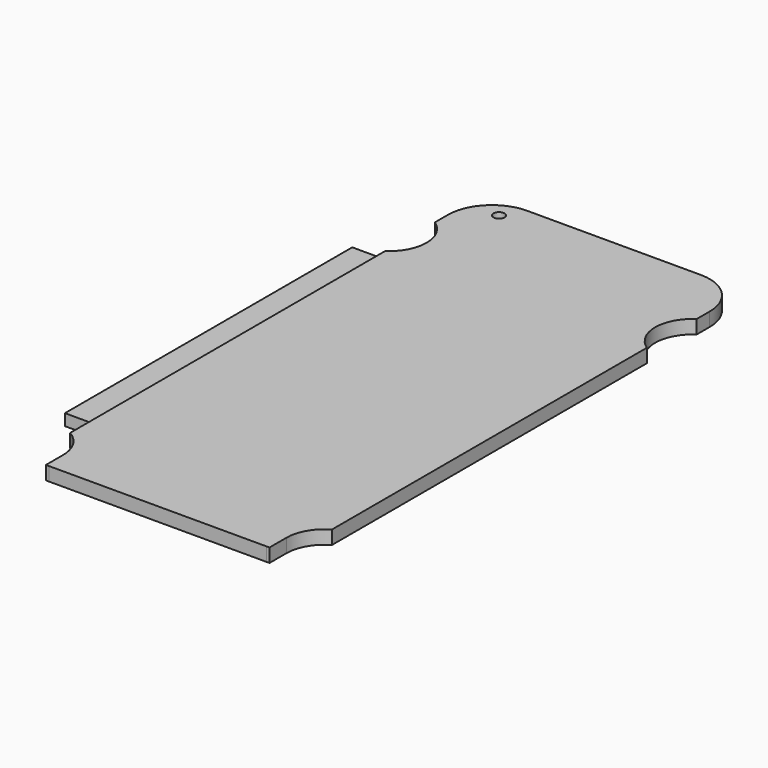
from build123d import *

# Parameters (mm, degrees)
F0_W      = 30.19
F0_H      = 57
F1_DEPTH  = 1.5748
F2_W      = 30.19
F2_H      = 1.5748
F3_DEPTH  = 6.8834
F4_R      = 2.54
F5_R      = 4.32816
F6_DEPTH  = 1.5758
F7_W      = 30.19
F7_H      = 1.5748
F8_DEPTH  = 1.905
F9_R      = 5.08
F10_R     = 0.635
F11_DEPTH = 25.4
F12_W     = 41.4245947965
F12_H     = 1.3208
F13_DEPTH = 2.921


with BuildPart() as f1:
    # F0 (on Top) → F1 (new body)
    with BuildSketch(Plane.XY):
        Rectangle(F0_W, F0_H)
    extrude(amount=F1_DEPTH)

    # F2 (on face) → F3 (join)
    with BuildSketch(Plane.XZ.offset(28.5)):
        with Locations((0, 0.7874)):
            Rectangle(F2_W, F2_H)
    extrude(amount=F3_DEPTH)

    # F4
    f4_edges = [f1.edges().sort_by_distance(p)[0] for p in [
        (15.095, -35.3834, 0.7874),
        (-15.095, -35.3834, 0.7874),
    ]]
    fillet(f4_edges, radius=F4_R)

    # F5 (on face) → F6 (cut, through all)
    with BuildSketch(Plane.XY.offset(1.5748)):
        with Locations((-17.51457, 19.8616)):
            Circle(F5_R)
        with Locations((17.51457, 19.8616)):
            Circle(F5_R)
        with BuildLine():
            Line((-17.2212, -32.9196), (-12.89304, -32.9196))
            ThreePointArc((-12.89304, -32.9196), (-20.2816712861, -29.8591287139), (-17.2212, -37.24776))
            Line((-17.2212, -37.24776), (-17.2212, -32.9196))
        make_face()
        with BuildLine():
            Line((-12.89304, -37.24776), (-12.89304, -32.9196))
            ThreePointArc((-12.89304, -32.9196), (-14.1607287139, -35.9800712861), (-17.2212, -37.24776))
            Line((-17.2212, -37.24776), (-12.89304, -37.24776))
        make_face()
        with BuildLine():
            ThreePointArc((-17.2212, -37.24776), (-14.1607287139, -35.9800712861), (-12.89304, -32.9196))
            Line((-12.89304, -32.9196), (-17.2212, -32.9196))
            Line((-17.2212, -32.9196), (-17.2212, -37.24776))
        make_face()
        with BuildLine():
            ThreePointArc((17.2212, -37.24776), (20.2816712861, -35.9800712861), (21.54936, -32.9196))
            ThreePointArc((21.54936, -32.9196), (17.2212, -28.59144), (12.89304, -32.9196))
            Line((12.89304, -32.9196), (17.2212, -32.9196))
            Line((17.2212, -32.9196), (17.2212, -37.24776))
        make_face()
        with BuildLine():
            Line((17.2212, -32.9196), (12.89304, -32.9196))
            ThreePointArc((12.89304, -32.9196), (14.1607287139, -35.9800712861), (17.2212, -37.24776))
            Line((17.2212, -37.24776), (17.2212, -32.9196))
        make_face()
        with BuildLine():
            ThreePointArc((17.2212, -37.24776), (14.1607287139, -35.9800712861), (12.89304, -32.9196))
            Line((12.89304, -32.9196), (12.89304, -37.24776))
            Line((12.89304, -37.24776), (17.2212, -37.24776))
        make_face()
    extrude(amount=-F6_DEPTH, mode=Mode.SUBTRACT)

    # F7 (on face) → F8 (join)
    with BuildSketch(Plane(origin=(0, 28.5, 0), x_dir=(-1, 0, 0), z_dir=(0, 1, 0))):
        with Locations((0, 0.7874)):
            Rectangle(F7_W, F7_H)
    extrude(amount=F8_DEPTH)

    # F9
    f9_edges = [f1.edges().sort_by_distance(p)[0] for p in [
        (-15.095, 30.405, 0.7874),
        (15.095, 30.405, 0.7874),
    ]]
    fillet(f9_edges, radius=F9_R)

    # F10 (on face) → F11 (cut)
    with BuildSketch(Plane.XY.offset(1.5748)):
        with Locations((-11.43, 28.1166)):
            Circle(F10_R)
    extrude(amount=-F11_DEPTH, mode=Mode.SUBTRACT)

    # F12 (on face) → F13 (join)
    with BuildSketch(Plane(origin=(-15.095, 0, 0), x_dir=(0, -1, 0), z_dir=(-1, 0, 0))):
        with Locations((5.5271026017, 0.7874)):
            Rectangle(F12_W, F12_H)
    extrude(amount=F13_DEPTH)


solid = f1.part
